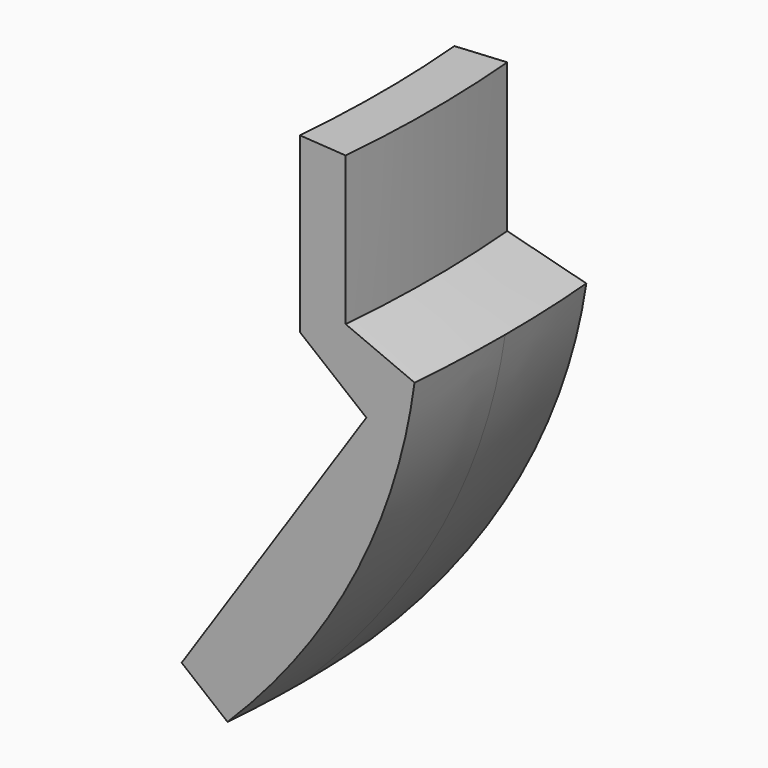
from build123d import *

# Parameters (mm, degrees)
F1_ANGLE = 10


with BuildPart() as f1:
    # F0 (on Front) → F1 (revolve, symmetric)
    with BuildSketch(Plane.XZ) as f1_sk:
        with BuildLine():
            Line((39.630951, -16.612617), (41.630951, -18))
            add(Edge.make_bspline(
                [(41.630951, -18), (48.621444, -11.169093), (49.786527, -3)],
                knots=[5.696209, 5.696209, 5.696209, 6.190746, 6.190746, 6.190746], degree=2, weights=[1, 0.969585, 1]))
            Line((49.786527, -3), (46.786527, -2))
            Line((46.786527, -2), (46.786527, 4))
            Line((46.786527, 4), (44.786527, 4))
            Line((44.786527, 4), (44.786527, -3))
            Line((44.786527, -3), (47.686527, -5))
            Line((47.686527, -5), (43.658739, -10.806308))
            Line((43.658739, -10.806308), (39.630951, -16.612617))
        make_face()
    revolve(axis=Axis((0, 0, 2.169164), (0, 0, -1)), revolution_arc=F1_ANGLE / 2)
    revolve(f1_sk.sketch, axis=Axis((0, 0, 2.169164), (0, 0, 1)), revolution_arc=F1_ANGLE / 2)


solid = f1.part
